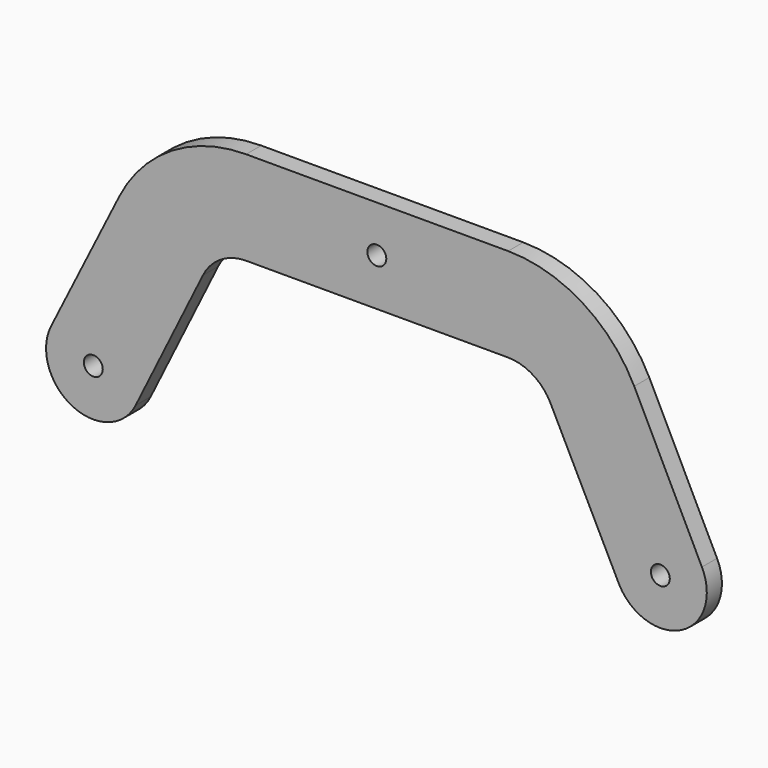
from build123d import *

# Parameters (mm, degrees)
F0_R     = 5
F1_DEPTH = 10


with BuildPart() as f1:
    # F0 (on Front) → F1 (new body)
    with BuildSketch(Plane.XZ):
        with BuildLine():
            ThreePointArc((-219.160475, 174.812716), (-258.617076, 163.603922), (-286.288055, 133.32559))
            Line((-286.288055, 133.32559), (-322.419221, 61.063257))
            ThreePointArc((-322.419221, 61.063257), (-311.180493, 27.639014), (-277.697862, 38.702578))
            Line((-277.697862, 38.702578), (-277.580779, 38.936743))
            Line((-277.580779, 38.936743), (-242.002863, 111.033879))
            ThreePointArc((-242.002863, 111.033879), (-232.608699, 121.394639), (-219.160475, 125.234029))
            Line((-219.160475, 125.234029), (-80.808, 125.234029))
            ThreePointArc((-80.808, 125.234029), (-67.537861, 121.495487), (-58.170905, 111.37949))
            ThreePointArc((-58.170905, 111.37949), (-58.070965, 111.181769), (-57.972752, 110.983184))
            Line((-57.972752, 110.983184), (-21.891489, 38.820657))
            ThreePointArc((-21.891489, 38.820657), (11.086202, 28.061196), (21.985722, 60.992861))
            Line((21.985722, 60.992861), (-13.81966, 133.54102))
            ThreePointArc((-13.81966, 133.54102), (-41.346483, 163.59247), (-80.52456, 174.812716))
            Line((-80.52456, 174.812716), (-219.160475, 174.812716))
        make_face()
        with Locations((-300, 50)):
            Circle(F0_R, mode=Mode.SUBTRACT)
        with Locations((0, 50)):
            Circle(F0_R, mode=Mode.SUBTRACT)
        with Locations((-150, 150.234029)):
            Circle(F0_R, mode=Mode.SUBTRACT)
    extrude(amount=F1_DEPTH)


solid = f1.part
